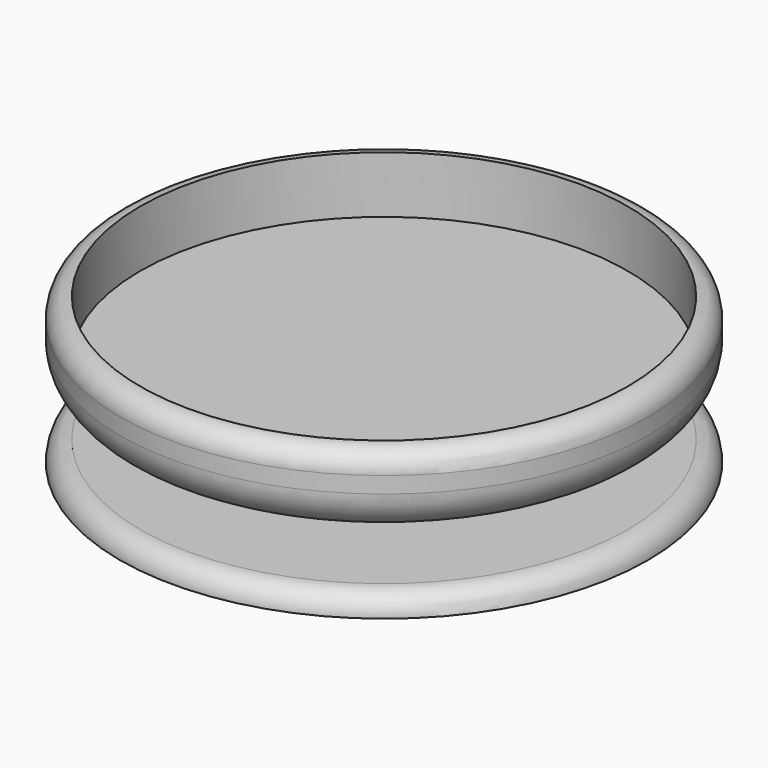
from build123d import *

# Parameters (mm, degrees)
EXTRUDE_DEPTH     = 12
CYLINDER002_R     = 65
CYLINDER002_DEPTH = 5
FILLET_R          = 10
FILLET001_R       = 4.99
FILLET002_R       = 4.99


with BuildPart() as extrude_body:
    # InvoluteGear002 → Extrude (new body)
    with BuildSketch(Plane.XY):
        with BuildLine():
            Line((23.947555, -2.153977), (24.613263, -2.211975))
            add(Edge.make_bspline(
                [(24.613263, -2.211975), (24.733298, -2.215483), (25.094677, -2.211612), (25.697376, -2.081837)],
                knots=[0, 0, 0, 0, 1, 1, 1, 1], degree=3))
            add(Edge.make_bspline(
                [(25.697376, -2.081837), (26.418582, -1.924256), (27.457266, -1.587852), (28.739389, -0.8747)],
                knots=[0, 0, 0, 0, 1, 1, 1, 1], degree=3))
            ThreePointArc((28.739389, -0.8747), (28.752698, 0), (28.739389, 0.8747))
            add(Edge.make_bspline(
                [(28.739389, 0.8747), (27.457266, 1.587852), (26.418582, 1.924256), (25.697376, 2.081837)],
                knots=[0, 0, 0, 0, 1, 1, 1, 1], degree=3))
            add(Edge.make_bspline(
                [(25.697376, 2.081837), (25.094677, 2.211612), (24.733298, 2.215483), (24.613263, 2.211975)],
                knots=[0, 0, 0, 0, 1, 1, 1, 1], degree=3))
            Line((24.613263, 2.211975), (23.947555, 2.153977))
            ThreePointArc((23.947555, 2.153977), (23.277111, 2.35629), (22.933908, 2.966729))
            ThreePointArc((22.933908, 2.966729), (22.866713, 3.446602), (22.789478, 3.924962))
            ThreePointArc((22.789478, 3.924962), (22.937503, 4.609443), (23.518528, 5.000384))
            Line((23.518528, 5.000384), (24.171755, 5.141184))
            add(Edge.make_bspline(
                [(24.171755, 5.141184), (24.287492, 5.173212), (24.631675, 5.283429), (25.169346, 5.585088)],
                knots=[0, 0, 0, 0, 1, 1, 1, 1], degree=3))
            add(Edge.make_bspline(
                [(25.169346, 5.585088), (25.812063, 5.948246), (26.705444, 6.575863), (27.720401, 7.635244)],
                knots=[0, 0, 0, 0, 1, 1, 1, 1], degree=3))
            ThreePointArc((27.720401, 7.635244), (27.475297, 8.475007), (27.204757, 9.306923))
            add(Edge.make_bspline(
                [(27.204757, 9.306923), (25.769389, 9.61048), (24.677694, 9.625781), (23.942082, 9.563781)],
                knots=[0, 0, 0, 0, 1, 1, 1, 1], degree=3))
            add(Edge.make_bspline(
                [(23.942082, 9.563781), (23.327907, 9.510142), (22.981442, 9.407323), (22.867773, 9.368589)],
                knots=[0, 0, 0, 0, 1, 1, 1, 1], degree=3))
            Line((22.867773, 9.368589), (22.248736, 9.116948))
            ThreePointArc((22.248736, 9.116948), (21.548446, 9.112655), (21.04056, 9.594814))
            ThreePointArc((21.04056, 9.594814), (20.834905, 10.033561), (20.620102, 10.467904))
            ThreePointArc((20.620102, 10.467904), (20.559797, 11.165606), (20.999777, 11.710439))
            Line((20.999777, 11.710439), (21.582482, 12.037525))
            add(Edge.make_bspline(
                [(21.582482, 12.037525), (21.683636, 12.102245), (21.980041, 12.309015), (22.404909, 12.755753)],
                knots=[0, 0, 0, 0, 1, 1, 1, 1], degree=3))
            add(Edge.make_bspline(
                [(22.404909, 12.755753), (22.912029, 13.292222), (23.580727, 14.155283), (24.238334, 15.466763)],
                knots=[0, 0, 0, 0, 1, 1, 1, 1], degree=3))
            ThreePointArc((24.238334, 15.466763), (23.756594, 16.196972), (23.252862, 16.912186))
            add(Edge.make_bspline(
                [(23.252862, 16.912186), (21.791789, 16.779174), (20.744084, 16.472012), (20.059428, 16.195942)],
                knots=[0, 0, 0, 0, 1, 1, 1, 1], degree=3))
            add(Edge.make_bspline(
                [(20.059428, 16.195942), (19.48835, 15.963655), (19.187584, 15.763281), (19.090382, 15.692764)],
                knots=[0, 0, 0, 0, 1, 1, 1, 1], degree=3))
            Line((19.090382, 15.692764), (18.57302, 15.269837))
            ThreePointArc((18.57302, 15.269837), (17.905107, 15.059321), (17.277666, 15.370357))
            ThreePointArc((17.277666, 15.370357), (16.951825, 15.728995), (16.61854, 16.080726))
            ThreePointArc((16.61854, 16.080726), (16.355263, 16.729656), (16.615103, 17.37997))
            Line((16.615103, 17.37997), (17.07551, 17.86428))
            add(Edge.make_bspline(
                [(17.07551, 17.86428), (17.153093, 17.95594), (17.375383, 18.240891), (17.649697, 18.793014)],
                knots=[0, 0, 0, 0, 1, 1, 1, 1], degree=3))
            add(Edge.make_bspline(
                [(17.649697, 18.793014), (17.97616, 19.455124), (18.360758, 20.476945), (18.602584, 21.923993)],
                knots=[0, 0, 0, 0, 1, 1, 1, 1], degree=3))
            ThreePointArc((18.602584, 21.923993), (17.927014, 22.479765), (17.234848, 23.014726))
            add(Edge.make_bspline(
                [(17.234848, 23.014726), (15.877892, 22.456965), (14.967272, 21.854633), (14.394407, 21.389022)],
                knots=[0, 0, 0, 0, 1, 1, 1, 1], degree=3))
            add(Edge.make_bspline(
                [(14.394407, 21.389022), (13.917167, 20.998726), (13.688825, 20.718602), (13.616727, 20.622567)],
                knots=[0, 0, 0, 0, 1, 1, 1, 1], degree=3))
            Line((13.616727, 20.622567), (13.247009, 20.065935))
            ThreePointArc((13.247009, 20.065935), (12.67082, 19.667901), (11.979575, 19.780177))
            ThreePointArc((11.979575, 19.780177), (11.5625, 20.026837), (11.140348, 20.264705))
            ThreePointArc((11.140348, 20.264705), (10.697492, 20.807202), (10.754105, 21.505214))
            Line((10.754105, 21.505214), (11.051304, 22.103715))
            add(Edge.make_bspline(
                [(11.051304, 22.103715), (11.098423, 22.214171), (11.226847, 22.551983), (11.326233, 23.160433)],
                knots=[0, 0, 0, 0, 1, 1, 1, 1], degree=3))
            add(Edge.make_bspline(
                [(11.326233, 23.160433), (11.443032, 23.889354), (11.509356, 24.97914), (11.313913, 26.433179)],
                knots=[0, 0, 0, 0, 1, 1, 1, 1], degree=3))
            ThreePointArc((11.313913, 26.433179), (10.50454, 26.765132), (9.685443, 27.072307))
            add(Edge.make_bspline(
                [(9.685443, 27.072307), (8.553176, 26.139355), (7.860552, 25.295374), (7.450379, 24.681593)],
                knots=[0, 0, 0, 0, 1, 1, 1, 1], degree=3))
            add(Edge.make_bspline(
                [(7.450379, 24.681593), (7.109383, 24.167969), (6.973753, 23.832984), (6.933165, 23.719965)],
                knots=[0, 0, 0, 0, 1, 1, 1, 1], degree=3))
            Line((6.933165, 23.719965), (6.743943, 23.079086))
            ThreePointArc((6.743943, 23.079086), (6.310676, 22.528901), (5.617047, 22.432441))
            ThreePointArc((5.617047, 22.432441), (5.145797, 22.545208), (4.672287, 22.648076))
            ThreePointArc((4.672287, 22.648076), (4.089202, 23.035938), (3.937557, 23.719626))
            Line((3.937557, 23.719626), (4.045141, 24.379138))
            add(Edge.make_bspline(
                [(4.045141, 24.379138), (4.05761, 24.498575), (4.080756, 24.859233), (3.996383, 25.469945)],
                knots=[0, 0, 0, 0, 1, 1, 1, 1], degree=3))
            add(Edge.make_bspline(
                [(3.996383, 25.469945), (3.893139, 26.20091), (3.635296, 27.261829), (3.019951, 28.593662)],
                knots=[0, 0, 0, 0, 1, 1, 1, 1], degree=3))
            ThreePointArc((3.019951, 28.593662), (2.148692, 28.6723), (1.275443, 28.724395))
            add(Edge.make_bspline(
                [(1.275443, 28.724395), (0.468472, 27.49915), (0.055387, 26.48851), (-0.155648, 25.781097)],
                knots=[0, 0, 0, 0, 1, 1, 1, 1], degree=3))
            add(Edge.make_bspline(
                [(-0.155648, 25.781097), (-0.330101, 25.189781), (-0.360966, 24.829702), (-0.366438, 24.70974)],
                knots=[0, 0, 0, 0, 1, 1, 1, 1], degree=3))
            Line((-0.366438, 24.70974), (-0.358351, 24.04156))
            ThreePointArc((-0.358351, 24.04156), (-0.6102, 23.388109), (-1.244581, 23.091484))
            ThreePointArc((-1.244581, 23.091484), (-1.728133, 23.060338), (-2.210927, 23.019067))
            ThreePointArc((-2.210927, 23.019067), (-2.882432, 23.217829), (-3.22886, 23.826445))
            Line((-3.22886, 23.826445), (-3.32045, 24.488367))
            add(Edge.make_bspline(
                [(-3.32045, 24.488367), (-3.34374, 24.606174), (-3.427929, 24.957631), (-3.688564, 25.516342)],
                knots=[0, 0, 0, 0, 1, 1, 1, 1], degree=3))
            add(Edge.make_bspline(
                [(-3.688564, 25.516342), (-4.002676, 26.1844), (-4.561775, 27.122185), (-5.542346, 28.213472)],
                knots=[0, 0, 0, 0, 1, 1, 1, 1], degree=3))
            ThreePointArc((-5.542346, 28.213472), (-6.398077, 28.031808), (-7.247885, 27.824194))
            add(Edge.make_bspline(
                [(-7.247885, 27.824194), (-7.657858, 26.415524), (-7.754699, 25.328025), (-7.747845, 24.589837)],
                knots=[0, 0, 0, 0, 1, 1, 1, 1], degree=3))
            add(Edge.make_bspline(
                [(-7.747845, 24.589837), (-7.740253, 23.973371), (-7.663613, 23.620191), (-7.633482, 23.503946)],
                knots=[0, 0, 0, 0, 1, 1, 1, 1], degree=3))
            Line((-7.633482, 23.503946), (-7.428805, 22.867835))
            ThreePointArc((-7.428805, 22.867835), (-7.476857, 22.169181), (-7.995622, 21.698748))
            ThreePointArc((-7.995622, 21.698748), (-8.448511, 21.526455), (-8.897691, 21.344712))
            ThreePointArc((-8.897691, 21.344712), (-9.597949, 21.336714), (-10.108378, 21.816179))
            Line((-10.108378, 21.816179), (-10.391005, 22.421698))
            add(Edge.make_bspline(
                [(-10.391005, 22.421698), (-10.447984, 22.527406), (-10.632026, 22.838434), (-11.045765, 23.295499)],
                knots=[0, 0, 0, 0, 1, 1, 1, 1], degree=3))
            add(Edge.make_bspline(
                [(-11.045765, 23.295499), (-11.542836, 23.841291), (-12.353512, 24.572616), (-13.612182, 25.326391)],
                knots=[0, 0, 0, 0, 1, 1, 1, 1], degree=3))
            ThreePointArc((-13.612182, 25.326391), (-14.376349, 24.900567), (-15.127207, 24.451691))
            add(Edge.make_bspline(
                [(-15.127207, 24.451691), (-15.103753, 22.984763), (-14.875746, 21.917035), (-14.651612, 21.213662)],
                knots=[0, 0, 0, 0, 1, 1, 1, 1], degree=3))
            add(Edge.make_bspline(
                [(-14.651612, 21.213662), (-14.462651, 20.626822), (-14.285313, 20.311923), (-14.222258, 20.209723)],
                knots=[0, 0, 0, 0, 1, 1, 1, 1], degree=3))
            Line((-14.222258, 20.209723), (-13.839176, 19.662202))
            ThreePointArc((-13.839176, 19.662202), (-13.679162, 18.980425), (-14.036217, 18.377982))
            ThreePointArc((-14.036217, 18.377982), (-14.418202, 18.079853), (-14.793856, 17.773786))
            ThreePointArc((-14.793856, 17.773786), (-15.460646, 17.559739), (-16.089723, 17.867451))
            Line((-16.089723, 17.867451), (-16.538273, 18.362762))
            add(Edge.make_bspline(
                [(-16.538273, 18.362762), (-16.623879, 18.446979), (-16.891422, 18.689942), (-17.421501, 19.004749)],
                knots=[0, 0, 0, 0, 1, 1, 1, 1], degree=3))
            add(Edge.make_bspline(
                [(-17.421501, 19.004749), (-18.057364, 19.379779), (-19.047586, 19.839662), (-20.472516, 20.18895)],
                knots=[0, 0, 0, 0, 1, 1, 1, 1], degree=3))
            ThreePointArc((-20.472516, 20.18895), (-21.077219, 19.556802), (-21.66241, 18.906549))
            add(Edge.make_bspline(
                [(-21.66241, 18.906549), (-21.207614, 17.511705), (-20.675017, 16.558619), (-20.253518, 15.952561)],
                knots=[0, 0, 0, 0, 1, 1, 1, 1], degree=3))
            add(Edge.make_bspline(
                [(-20.253518, 15.952561), (-19.899978, 15.447489), (-19.637701, 15.198851), (-19.547323, 15.119778)],
                knots=[0, 0, 0, 0, 1, 1, 1, 1], degree=3))
            Line((-19.547323, 15.119778), (-19.019876, 14.709497))
            ThreePointArc((-19.019876, 14.709497), (-18.666014, 14.105174), (-18.829633, 13.424252))
            ThreePointArc((-18.829633, 13.424252), (-19.106772, 13.026776), (-19.375522, 12.623581))
            ThreePointArc((-19.375522, 12.623581), (-19.949597, 12.222503), (-20.641426, 12.331121))
            Line((-20.641426, 12.331121), (-21.216043, 12.672215))
            add(Edge.make_bspline(
                [(-21.216043, 12.672215), (-21.322669, 12.727457), (-21.64994, 12.880766), (-22.249261, 13.025344)],
                knots=[0, 0, 0, 0, 1, 1, 1, 1], degree=3))
            add(Edge.make_bspline(
                [(-22.249261, 13.025344), (-22.967416, 13.196288), (-24.049198, 13.343867), (-25.513777, 13.257631)],
                knots=[0, 0, 0, 0, 1, 1, 1, 1], degree=3))
            ThreePointArc((-25.513777, 13.257631), (-25.905286, 12.475328), (-26.272813, 11.681476))
            add(Edge.make_bspline(
                [(-26.272813, 11.681476), (-25.427085, 10.482656), (-24.637223, 9.728898), (-24.055811, 9.274004)],
                knots=[0, 0, 0, 0, 1, 1, 1, 1], degree=3))
            add(Edge.make_bspline(
                [(-24.055811, 9.274004), (-23.569105, 8.895579), (-23.245193, 8.735295), (-23.135523, 8.686374)],
                knots=[0, 0, 0, 0, 1, 1, 1, 1], degree=3))
            Line((-23.135523, 8.686374), (-22.510577, 8.449788))
            ThreePointArc((-22.510577, 8.449788), (-21.994308, 7.976616), (-21.949953, 7.277719))
            ThreePointArc((-21.949953, 7.277719), (-22.097621, 6.816213), (-22.235587, 6.351715))
            ThreePointArc((-22.235587, 6.351715), (-22.665938, 5.799245), (-23.359047, 5.699117))
            Line((-23.359047, 5.699117), (-24.008675, 5.855685))
            add(Edge.make_bspline(
                [(-24.008675, 5.855685), (-24.126847, 5.877045), (-24.484767, 5.927078), (-25.100076, 5.888579)],
                knots=[0, 0, 0, 0, 1, 1, 1, 1], degree=3))
            add(Edge.make_bspline(
                [(-25.100076, 5.888579), (-25.836712, 5.840249), (-26.913934, 5.66241), (-28.288027, 5.148314)],
                knots=[0, 0, 0, 0, 1, 1, 1, 1], degree=3))
            ThreePointArc((-28.288027, 5.148314), (-28.431555, 4.285367), (-28.548761, 3.418453))
            add(Edge.make_bspline(
                [(-28.548761, 3.418453), (-27.387248, 2.522176), (-26.410303, 2.034721), (-25.720639, 1.771411)],
                knots=[0, 0, 0, 0, 1, 1, 1, 1], degree=3))
            add(Edge.make_bspline(
                [(-25.720639, 1.771411), (-25.144014, 1.553257), (-24.787248, 1.495569), (-24.66803, 1.481148)],
                knots=[0, 0, 0, 0, 1, 1, 1, 1], degree=3))
            Line((-24.66803, 1.481148), (-24.001114, 1.439279))
            ThreePointArc((-24.001114, 1.439279), (-23.368312, 1.139302), (-23.119923, 0.484528))
            ThreePointArc((-23.119923, 0.484528), (-23.125, 0), (-23.119923, -0.484528))
            ThreePointArc((-23.119923, -0.484528), (-23.368312, -1.139302), (-24.001114, -1.439279))
            Line((-24.001114, -1.439279), (-24.66803, -1.481148))
            add(Edge.make_bspline(
                [(-24.66803, -1.481148), (-24.787248, -1.495569), (-25.144014, -1.553257), (-25.720639, -1.771411)],
                knots=[0, 0, 0, 0, 1, 1, 1, 1], degree=3))
            add(Edge.make_bspline(
                [(-25.720639, -1.771411), (-26.410303, -2.034721), (-27.387248, -2.522176), (-28.548761, -3.418453)],
                knots=[0, 0, 0, 0, 1, 1, 1, 1], degree=3))
            ThreePointArc((-28.548761, -3.418453), (-28.431555, -4.285367), (-28.288027, -5.148314))
            add(Edge.make_bspline(
                [(-28.288027, -5.148314), (-26.913934, -5.66241), (-25.836712, -5.840249), (-25.100076, -5.888579)],
                knots=[0, 0, 0, 0, 1, 1, 1, 1], degree=3))
            add(Edge.make_bspline(
                [(-25.100076, -5.888579), (-24.484767, -5.927078), (-24.126847, -5.877045), (-24.008675, -5.855685)],
                knots=[0, 0, 0, 0, 1, 1, 1, 1], degree=3))
            Line((-24.008675, -5.855685), (-23.359047, -5.699117))
            ThreePointArc((-23.359047, -5.699117), (-22.665938, -5.799245), (-22.235587, -6.351715))
            ThreePointArc((-22.235587, -6.351715), (-22.097621, -6.816213), (-21.949953, -7.277719))
            ThreePointArc((-21.949953, -7.277719), (-21.994308, -7.976616), (-22.510577, -8.449788))
            Line((-22.510577, -8.449788), (-23.135523, -8.686374))
            add(Edge.make_bspline(
                [(-23.135523, -8.686374), (-23.245193, -8.735295), (-23.569105, -8.895579), (-24.055811, -9.274004)],
                knots=[0, 0, 0, 0, 1, 1, 1, 1], degree=3))
            add(Edge.make_bspline(
                [(-24.055811, -9.274004), (-24.637223, -9.728898), (-25.427085, -10.482656), (-26.272813, -11.681476)],
                knots=[0, 0, 0, 0, 1, 1, 1, 1], degree=3))
            ThreePointArc((-26.272813, -11.681476), (-25.905286, -12.475328), (-25.513777, -13.257631))
            add(Edge.make_bspline(
                [(-25.513777, -13.257631), (-24.049198, -13.343867), (-22.967416, -13.196288), (-22.249261, -13.025344)],
                knots=[0, 0, 0, 0, 1, 1, 1, 1], degree=3))
            add(Edge.make_bspline(
                [(-22.249261, -13.025344), (-21.64994, -12.880766), (-21.322669, -12.727457), (-21.216043, -12.672215)],
                knots=[0, 0, 0, 0, 1, 1, 1, 1], degree=3))
            Line((-21.216043, -12.672215), (-20.641426, -12.331121))
            ThreePointArc((-20.641426, -12.331121), (-19.949597, -12.222503), (-19.375522, -12.623581))
            ThreePointArc((-19.375522, -12.623581), (-19.106772, -13.026776), (-18.829633, -13.424252))
            ThreePointArc((-18.829633, -13.424252), (-18.666014, -14.105174), (-19.019876, -14.709497))
            Line((-19.019876, -14.709497), (-19.547323, -15.119778))
            add(Edge.make_bspline(
                [(-19.547323, -15.119778), (-19.637701, -15.198851), (-19.899978, -15.447489), (-20.253518, -15.952561)],
                knots=[0, 0, 0, 0, 1, 1, 1, 1], degree=3))
            add(Edge.make_bspline(
                [(-20.253518, -15.952561), (-20.675017, -16.558619), (-21.207614, -17.511705), (-21.66241, -18.906549)],
                knots=[0, 0, 0, 0, 1, 1, 1, 1], degree=3))
            ThreePointArc((-21.66241, -18.906549), (-21.077219, -19.556802), (-20.472516, -20.18895))
            add(Edge.make_bspline(
                [(-20.472516, -20.18895), (-19.047586, -19.839662), (-18.057364, -19.379779), (-17.421501, -19.004749)],
                knots=[0, 0, 0, 0, 1, 1, 1, 1], degree=3))
            add(Edge.make_bspline(
                [(-17.421501, -19.004749), (-16.891422, -18.689942), (-16.623879, -18.446979), (-16.538273, -18.362762)],
                knots=[0, 0, 0, 0, 1, 1, 1, 1], degree=3))
            Line((-16.538273, -18.362762), (-16.089723, -17.867451))
            ThreePointArc((-16.089723, -17.867451), (-15.460646, -17.559739), (-14.793856, -17.773786))
            ThreePointArc((-14.793856, -17.773786), (-14.418202, -18.079853), (-14.036217, -18.377982))
            ThreePointArc((-14.036217, -18.377982), (-13.679162, -18.980425), (-13.839176, -19.662202))
            Line((-13.839176, -19.662202), (-14.222258, -20.209723))
            add(Edge.make_bspline(
                [(-14.222258, -20.209723), (-14.285313, -20.311923), (-14.462651, -20.626822), (-14.651612, -21.213662)],
                knots=[0, 0, 0, 0, 1, 1, 1, 1], degree=3))
            add(Edge.make_bspline(
                [(-14.651612, -21.213662), (-14.875746, -21.917035), (-15.103753, -22.984763), (-15.127207, -24.451691)],
                knots=[0, 0, 0, 0, 1, 1, 1, 1], degree=3))
            ThreePointArc((-15.127207, -24.451691), (-14.376349, -24.900567), (-13.612182, -25.326391))
            add(Edge.make_bspline(
                [(-13.612182, -25.326391), (-12.353512, -24.572616), (-11.542836, -23.841291), (-11.045765, -23.295499)],
                knots=[0, 0, 0, 0, 1, 1, 1, 1], degree=3))
            add(Edge.make_bspline(
                [(-11.045765, -23.295499), (-10.632026, -22.838434), (-10.447984, -22.527406), (-10.391005, -22.421698)],
                knots=[0, 0, 0, 0, 1, 1, 1, 1], degree=3))
            Line((-10.391005, -22.421698), (-10.108378, -21.816179))
            ThreePointArc((-10.108378, -21.816179), (-9.597949, -21.336714), (-8.897691, -21.344712))
            ThreePointArc((-8.897691, -21.344712), (-8.448511, -21.526455), (-7.995622, -21.698748))
            ThreePointArc((-7.995622, -21.698748), (-7.476857, -22.169181), (-7.428805, -22.867835))
            Line((-7.428805, -22.867835), (-7.633482, -23.503946))
            add(Edge.make_bspline(
                [(-7.633482, -23.503946), (-7.663613, -23.620191), (-7.740253, -23.973371), (-7.747845, -24.589837)],
                knots=[0, 0, 0, 0, 1, 1, 1, 1], degree=3))
            add(Edge.make_bspline(
                [(-7.747845, -24.589837), (-7.754699, -25.328025), (-7.657858, -26.415524), (-7.247885, -27.824194)],
                knots=[0, 0, 0, 0, 1, 1, 1, 1], degree=3))
            ThreePointArc((-7.247885, -27.824194), (-6.398077, -28.031808), (-5.542346, -28.213472))
            add(Edge.make_bspline(
                [(-5.542346, -28.213472), (-4.561775, -27.122185), (-4.002676, -26.1844), (-3.688564, -25.516342)],
                knots=[0, 0, 0, 0, 1, 1, 1, 1], degree=3))
            add(Edge.make_bspline(
                [(-3.688564, -25.516342), (-3.427929, -24.957631), (-3.34374, -24.606174), (-3.32045, -24.488367)],
                knots=[0, 0, 0, 0, 1, 1, 1, 1], degree=3))
            Line((-3.32045, -24.488367), (-3.22886, -23.826445))
            ThreePointArc((-3.22886, -23.826445), (-2.882432, -23.217829), (-2.210927, -23.019067))
            ThreePointArc((-2.210927, -23.019067), (-1.728133, -23.060338), (-1.244581, -23.091484))
            ThreePointArc((-1.244581, -23.091484), (-0.6102, -23.388109), (-0.358351, -24.04156))
            Line((-0.358351, -24.04156), (-0.366438, -24.70974))
            add(Edge.make_bspline(
                [(-0.366438, -24.70974), (-0.360966, -24.829702), (-0.330101, -25.189781), (-0.155648, -25.781097)],
                knots=[0, 0, 0, 0, 1, 1, 1, 1], degree=3))
            add(Edge.make_bspline(
                [(-0.155648, -25.781097), (0.055387, -26.48851), (0.468472, -27.49915), (1.275443, -28.724395)],
                knots=[0, 0, 0, 0, 1, 1, 1, 1], degree=3))
            ThreePointArc((1.275443, -28.724395), (2.148692, -28.6723), (3.019951, -28.593662))
            add(Edge.make_bspline(
                [(3.019951, -28.593662), (3.635296, -27.261829), (3.893139, -26.20091), (3.996383, -25.469945)],
                knots=[0, 0, 0, 0, 1, 1, 1, 1], degree=3))
            add(Edge.make_bspline(
                [(3.996383, -25.469945), (4.080756, -24.859233), (4.05761, -24.498575), (4.045141, -24.379138)],
                knots=[0, 0, 0, 0, 1, 1, 1, 1], degree=3))
            Line((4.045141, -24.379138), (3.937557, -23.719626))
            ThreePointArc((3.937557, -23.719626), (4.089202, -23.035938), (4.672287, -22.648076))
            ThreePointArc((4.672287, -22.648076), (5.145797, -22.545208), (5.617047, -22.432441))
            ThreePointArc((5.617047, -22.432441), (6.310676, -22.528901), (6.743943, -23.079086))
            Line((6.743943, -23.079086), (6.933165, -23.719965))
            add(Edge.make_bspline(
                [(6.933165, -23.719965), (6.973753, -23.832984), (7.109383, -24.167969), (7.450379, -24.681593)],
                knots=[0, 0, 0, 0, 1, 1, 1, 1], degree=3))
            add(Edge.make_bspline(
                [(7.450379, -24.681593), (7.860552, -25.295374), (8.553176, -26.139355), (9.685443, -27.072307)],
                knots=[0, 0, 0, 0, 1, 1, 1, 1], degree=3))
            ThreePointArc((9.685443, -27.072307), (10.50454, -26.765132), (11.313913, -26.433179))
            add(Edge.make_bspline(
                [(11.313913, -26.433179), (11.509356, -24.97914), (11.443032, -23.889354), (11.326233, -23.160433)],
                knots=[0, 0, 0, 0, 1, 1, 1, 1], degree=3))
            add(Edge.make_bspline(
                [(11.326233, -23.160433), (11.226847, -22.551983), (11.098423, -22.214171), (11.051304, -22.103715)],
                knots=[0, 0, 0, 0, 1, 1, 1, 1], degree=3))
            Line((11.051304, -22.103715), (10.754105, -21.505214))
            ThreePointArc((10.754105, -21.505214), (10.697492, -20.807202), (11.140348, -20.264705))
            ThreePointArc((11.140348, -20.264705), (11.5625, -20.026837), (11.979575, -19.780177))
            ThreePointArc((11.979575, -19.780177), (12.67082, -19.667901), (13.247009, -20.065935))
            Line((13.247009, -20.065935), (13.616727, -20.622567))
            add(Edge.make_bspline(
                [(13.616727, -20.622567), (13.688825, -20.718602), (13.917167, -20.998726), (14.394407, -21.389022)],
                knots=[0, 0, 0, 0, 1, 1, 1, 1], degree=3))
            add(Edge.make_bspline(
                [(14.394407, -21.389022), (14.967272, -21.854633), (15.877892, -22.456965), (17.234848, -23.014726)],
                knots=[0, 0, 0, 0, 1, 1, 1, 1], degree=3))
            ThreePointArc((17.234848, -23.014726), (17.927014, -22.479765), (18.602584, -21.923993))
            add(Edge.make_bspline(
                [(18.602584, -21.923993), (18.360758, -20.476945), (17.97616, -19.455124), (17.649697, -18.793014)],
                knots=[0, 0, 0, 0, 1, 1, 1, 1], degree=3))
            add(Edge.make_bspline(
                [(17.649697, -18.793014), (17.375383, -18.240891), (17.153093, -17.95594), (17.07551, -17.86428)],
                knots=[0, 0, 0, 0, 1, 1, 1, 1], degree=3))
            Line((17.07551, -17.86428), (16.615103, -17.37997))
            ThreePointArc((16.615103, -17.37997), (16.355263, -16.729656), (16.61854, -16.080726))
            ThreePointArc((16.61854, -16.080726), (16.951825, -15.728995), (17.277666, -15.370357))
            ThreePointArc((17.277666, -15.370357), (17.905107, -15.059321), (18.57302, -15.269837))
            Line((18.57302, -15.269837), (19.090382, -15.692764))
            add(Edge.make_bspline(
                [(19.090382, -15.692764), (19.187584, -15.763281), (19.48835, -15.963655), (20.059428, -16.195942)],
                knots=[0, 0, 0, 0, 1, 1, 1, 1], degree=3))
            add(Edge.make_bspline(
                [(20.059428, -16.195942), (20.744084, -16.472012), (21.791789, -16.779174), (23.252862, -16.912186)],
                knots=[0, 0, 0, 0, 1, 1, 1, 1], degree=3))
            ThreePointArc((23.252862, -16.912186), (23.756594, -16.196972), (24.238334, -15.466763))
            add(Edge.make_bspline(
                [(24.238334, -15.466763), (23.580727, -14.155283), (22.912029, -13.292222), (22.404909, -12.755753)],
                knots=[0, 0, 0, 0, 1, 1, 1, 1], degree=3))
            add(Edge.make_bspline(
                [(22.404909, -12.755753), (21.980041, -12.309015), (21.683636, -12.102245), (21.582482, -12.037525)],
                knots=[0, 0, 0, 0, 1, 1, 1, 1], degree=3))
            Line((21.582482, -12.037525), (20.999777, -11.710439))
            ThreePointArc((20.999777, -11.710439), (20.559797, -11.165606), (20.620102, -10.467904))
            ThreePointArc((20.620102, -10.467904), (20.834905, -10.033561), (21.04056, -9.594814))
            ThreePointArc((21.04056, -9.594814), (21.548446, -9.112655), (22.248736, -9.116948))
            Line((22.248736, -9.116948), (22.867773, -9.368589))
            add(Edge.make_bspline(
                [(22.867773, -9.368589), (22.981442, -9.407323), (23.327907, -9.510142), (23.942082, -9.563781)],
                knots=[0, 0, 0, 0, 1, 1, 1, 1], degree=3))
            add(Edge.make_bspline(
                [(23.942082, -9.563781), (24.677694, -9.625781), (25.769389, -9.61048), (27.204757, -9.306923)],
                knots=[0, 0, 0, 0, 1, 1, 1, 1], degree=3))
            ThreePointArc((27.204757, -9.306923), (27.475297, -8.475007), (27.720401, -7.635244))
            add(Edge.make_bspline(
                [(27.720401, -7.635244), (26.705444, -6.575863), (25.812063, -5.948246), (25.169346, -5.585088)],
                knots=[0, 0, 0, 0, 1, 1, 1, 1], degree=3))
            add(Edge.make_bspline(
                [(25.169346, -5.585088), (24.631675, -5.283429), (24.287492, -5.173212), (24.171755, -5.141184)],
                knots=[0, 0, 0, 0, 1, 1, 1, 1], degree=3))
            Line((24.171755, -5.141184), (23.518528, -5.000384))
            ThreePointArc((23.518528, -5.000384), (22.937503, -4.609443), (22.789478, -3.924962))
            ThreePointArc((22.789478, -3.924962), (22.866713, -3.446602), (22.933908, -2.966729))
            ThreePointArc((22.933908, -2.966729), (23.277111, -2.35629), (23.947555, -2.153977))
        make_face()
    extrude(amount=EXTRUDE_DEPTH)


with BuildPart() as extrude_body_1:
    # Extrude placement: moved
    add(extrude_body.part.moved(Location((0, 0, -12))))


with BuildPart() as cylinder002:
    # Cylinder002 → Cylinder002 (new body)
    with BuildSketch(Plane.XY.offset(-17)):
        Circle(CYLINDER002_R)
    extrude(amount=CYLINDER002_DEPTH)


with BuildPart() as base_body:
    # Sketch → Revolve (revolve)
    with BuildSketch(Plane.XZ):
        Polygon((0, 5), (-60, 5), (-60, 19), (-65, 19), (-65, 0), (0, 0), align=None)
    revolve(axis=Axis((0, 0, 0), (0, 0, 1)))

    # Fusion001: union Extrude body, Cylinder002
    add(extrude_body_1.part)
    add(cylinder002.part)

    # Fillet
    fillet_edges = [base_body.edges().sort_by_distance(p)[0] for p in [
        (65, 0, 0),
    ]]
    fillet(fillet_edges, radius=FILLET_R)

    # Fillet001
    fillet001_edges = [base_body.edges().sort_by_distance(p)[0] for p in [
        (65, 0, 19),
    ]]
    fillet(fillet001_edges, radius=FILLET001_R)

    # Fillet002
    fillet002_edges = [base_body.edges().sort_by_distance(p)[0] for p in [
        (-65, 0, -12),
    ]]
    fillet(fillet002_edges, radius=FILLET002_R)


solid = base_body.part
